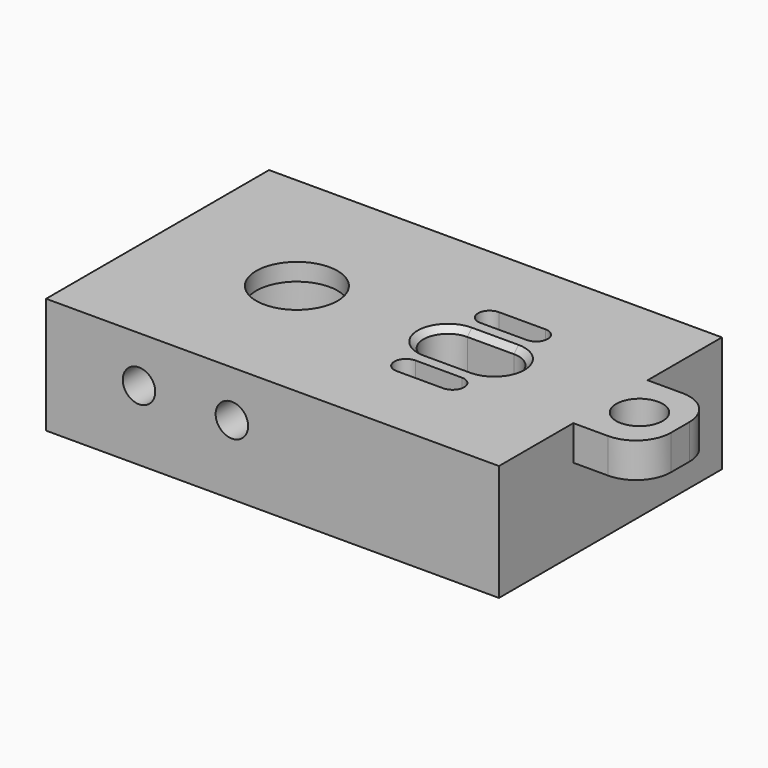
from build123d import *

# Parameters (mm, degrees)
CYLINDER267_R           = 2
CYLINDER267_DEPTH       = 10
CYLINDER267_PITCH_ANGLE = 90
BOX001027045199_W       = 3
BOX001027045199_H       = 8
BOX001027045199_DEPTH   = 8
FILLET045_R             = 3
CUT239_PITCH_ANGLE      = 90
CYLINDER028_R           = 1.4
CYLINDER028_DEPTH       = 19
CYLINDER028_ROLL_ANGLE  = 90
CYLINDER031_R           = 1.4
CYLINDER031_DEPTH       = 19
CYLINDER031_ROLL_ANGLE  = 90
CYLINDER032_R           = 1.4
CYLINDER032_DEPTH       = 19
CYLINDER032_ROLL_ANGLE  = 90
CYLINDER027_R           = 1.4
CYLINDER027_DEPTH       = 19
CYLINDER027_ROLL_ANGLE  = 90
CYLINDER021_R           = 1
CYLINDER021_DEPTH       = 30
CYLINDER022_R           = 1
CYLINDER022_DEPTH       = 30
BOX001007_W             = 4
BOX001007_H             = 4.2
BOX001007_DEPTH         = 27
CYLINDER020_R           = 2.1
CYLINDER020_DEPTH       = 30
CYLINDER023_R           = 2.1
CYLINDER023_DEPTH       = 30
CYLINDER024_R           = 1
CYLINDER024_DEPTH       = 30
BOX001008_W             = 4
BOX001008_H             = 2
BOX001008_DEPTH         = 27
CYLINDER025_R           = 1
CYLINDER025_DEPTH       = 30
BOX001009_W             = 4
BOX001009_H             = 2
BOX001009_DEPTH         = 27
CYLINDER016_R           = 3.5
CYLINDER016_DEPTH       = 30
CYLINDER017_R           = 4.7
CYLINDER017_DEPTH       = 30
CYLINDER018_R           = 10
CYLINDER018_DEPTH       = 30
CYLINDER026_R           = 10
CYLINDER026_DEPTH       = 30
CYLINDER019_R           = 10
CYLINDER019_DEPTH       = 30
BOX001006_W             = 39
BOX001006_H             = 24
BOX001006_DEPTH         = 10
CHAMFER_SIZE            = 1
CHAMFER014_SIZE         = 0.5


with BuildPart() as cylinder285:
    # Cylinder267 → Cylinder267 (new body)
    with BuildSketch(Plane.XY):
        Circle(CYLINDER267_R)
    extrude(amount=CYLINDER267_DEPTH)


with BuildPart() as cylinder285_1:
    # Cylinder267 pitch: moved
    add(cylinder285.part.rotate(Axis((0, 0, 0), (0, 1, 0)), CYLINDER267_PITCH_ANGLE))


with BuildPart() as cylinder285_2:
    # Cylinder267 placement: moved
    add(cylinder285_1.part.moved(Location((-3, 4, 4.5))))


with BuildPart() as cut239:
    # Box001027045199 → Box001027045199 (new body)
    with BuildSketch(Plane.XY):
        with Locations((1.5, 4)):
            Rectangle(BOX001027045199_W, BOX001027045199_H)
    extrude(amount=BOX001027045199_DEPTH)

    # Fillet045
    fillet045_edges = [cut239.edges().sort_by_distance(p)[0] for p in [
        (1.5, 0, 8),
        (1.5, 8, 8),
    ]]
    fillet(fillet045_edges, radius=FILLET045_R)

    # Cut239: cut Cylinder285
    add(cylinder285_2.part, mode=Mode.SUBTRACT)


with BuildPart() as cut239_1:
    # Cut239 pitch: moved
    add(cut239.part.rotate(Axis((0, 0, 0), (0, 1, 0)), CUT239_PITCH_ANGLE))


with BuildPart() as cut239_2:
    # Cut239 placement: moved
    add(cut239_1.part.moved(Location((25, -4, 10))))


with BuildPart() as cylinder028:
    # Cylinder028 → Cylinder028 (new body)
    with BuildSketch(Plane.XY):
        Circle(CYLINDER028_R)
    extrude(amount=CYLINDER028_DEPTH)


with BuildPart() as cylinder028_1:
    # Cylinder028 roll: moved
    add(cylinder028.part.rotate(Axis((0, 0, 0), (1, 0, 0)), CYLINDER028_ROLL_ANGLE))


with BuildPart() as cylinder028_2:
    # Cylinder028 placement: moved
    add(cylinder028_1.part.moved(Location((4, 24, 6))))


with BuildPart() as cylinder031:
    # Cylinder031 → Cylinder031 (new body)
    with BuildSketch(Plane.XY):
        Circle(CYLINDER031_R)
    extrude(amount=CYLINDER031_DEPTH)


with BuildPart() as cylinder031_1:
    # Cylinder031 roll: moved
    add(cylinder031.part.rotate(Axis((0, 0, 0), (1, 0, 0)), CYLINDER031_ROLL_ANGLE))


with BuildPart() as cylinder031_2:
    # Cylinder031 placement: moved
    add(cylinder031_1.part.moved(Location((-4, 24, 6))))


with BuildPart() as part_mirroring:
    # Part__Mirroring: instance of Cylinder031
    add(cylinder031_2.part.mirror(Plane(origin=(0, 0, 0), x_dir=(1, 0, 0), z_dir=(0, 1, 0))))


with BuildPart() as cylinder032:
    # Cylinder032 → Cylinder032 (new body)
    with BuildSketch(Plane.XY):
        Circle(CYLINDER032_R)
    extrude(amount=CYLINDER032_DEPTH)


with BuildPart() as cylinder032_1:
    # Cylinder032 roll: moved
    add(cylinder032.part.rotate(Axis((0, 0, 0), (1, 0, 0)), CYLINDER032_ROLL_ANGLE))


with BuildPart() as cylinder032_2:
    # Cylinder032 placement: moved
    add(cylinder032_1.part.moved(Location((4, 24, 6))))


with BuildPart() as part_mirroring001:
    # Part__Mirroring001: instance of Cylinder032
    add(cylinder032_2.part.mirror(Plane(origin=(0, 0, 0), x_dir=(1, 0, 0), z_dir=(0, 1, 0))))


with BuildPart() as m3_tap_a:
    # Cylinder027 → Cylinder027 (new body)
    with BuildSketch(Plane.XY):
        Circle(CYLINDER027_R)
    extrude(amount=CYLINDER027_DEPTH)


with BuildPart() as m3_tap_a_1:
    # Cylinder027 roll: moved
    add(m3_tap_a.part.rotate(Axis((0, 0, 0), (1, 0, 0)), CYLINDER027_ROLL_ANGLE))


with BuildPart() as m3_tap_a_2:
    # Cylinder027 placement: moved
    add(m3_tap_a_1.part.moved(Location((-4, 24, 6))))

    # Fusion056: union Cylinder028, Part__Mirroring, Part__Mirroring001
    add(cylinder028_2.part)
    add(part_mirroring.part)
    add(part_mirroring001.part)


with BuildPart() as cylinder021:
    # Cylinder021 → Cylinder021 (new body)
    with BuildSketch(Plane(origin=(17, -4.5, -12.5), x_dir=(1, 0, 0), z_dir=(0, 0, 1))):
        Circle(CYLINDER021_R)
    extrude(amount=CYLINDER021_DEPTH)


with BuildPart() as cylinder022:
    # Cylinder022 → Cylinder022 (new body)
    with BuildSketch(Plane(origin=(17, 4.5, -12.5), x_dir=(1, 0, 0), z_dir=(0, 0, 1))):
        Circle(CYLINDER022_R)
    extrude(amount=CYLINDER022_DEPTH)


with BuildPart() as cube005:
    # Box001007 → Box001007 (new body)
    with BuildSketch(Plane(origin=(13, -2.1, -11), x_dir=(1, 0, 0), z_dir=(0, 0, 1))):
        with Locations((2, 2.1)):
            Rectangle(BOX001007_W, BOX001007_H)
    extrude(amount=BOX001007_DEPTH)


with BuildPart() as cylinder020:
    # Cylinder020 → Cylinder020 (new body)
    with BuildSketch(Plane(origin=(17, 0, -12.5), x_dir=(1, 0, 0), z_dir=(0, 0, 1))):
        Circle(CYLINDER020_R)
    extrude(amount=CYLINDER020_DEPTH)


with BuildPart() as cylinder023:
    # Cylinder023 → Cylinder023 (new body)
    with BuildSketch(Plane(origin=(13, 0, -12.5), x_dir=(1, 0, 0), z_dir=(0, 0, 1))):
        Circle(CYLINDER023_R)
    extrude(amount=CYLINDER023_DEPTH)


with BuildPart() as cylinder024:
    # Cylinder024 → Cylinder024 (new body)
    with BuildSketch(Plane(origin=(13, -4.5, -12.5), x_dir=(1, 0, 0), z_dir=(0, 0, 1))):
        Circle(CYLINDER024_R)
    extrude(amount=CYLINDER024_DEPTH)


with BuildPart() as cube006:
    # Box001008 → Box001008 (new body)
    with BuildSketch(Plane(origin=(13, -5.5, -11), x_dir=(1, 0, 0), z_dir=(0, 0, 1))):
        with Locations((2, 1)):
            Rectangle(BOX001008_W, BOX001008_H)
    extrude(amount=BOX001008_DEPTH)


with BuildPart() as cylinder025:
    # Cylinder025 → Cylinder025 (new body)
    with BuildSketch(Plane(origin=(13, 4.5, -12.5), x_dir=(1, 0, 0), z_dir=(0, 0, 1))):
        Circle(CYLINDER025_R)
    extrude(amount=CYLINDER025_DEPTH)


with BuildPart() as motor_slots:
    # Box001009 → Box001009 (new body)
    with BuildSketch(Plane(origin=(13, 3.5, -11), x_dir=(1, 0, 0), z_dir=(0, 0, 1))):
        with Locations((2, 1)):
            Rectangle(BOX001009_W, BOX001009_H)
    extrude(amount=BOX001009_DEPTH)

    # Fusion052: union Cylinder021, Cylinder022, Cube005, Cylinder020, Cylinder023, Cylinder024, Cube006, Cylinder025
    add(cylinder021.part)
    add(cylinder022.part)
    add(cube005.part)
    add(cylinder020.part)
    add(cylinder023.part)
    add(cylinder024.part)
    add(cube006.part)
    add(cylinder025.part)


with BuildPart() as cylinder016:
    # Cylinder016 → Cylinder016 (new body)
    with BuildSketch(Plane.XY.offset(-12)):
        Circle(CYLINDER016_R)
    extrude(amount=CYLINDER016_DEPTH)


with BuildPart() as cylinder017:
    # Cylinder017 → Cylinder017 (new body)
    with BuildSketch(Plane.XY.offset(-21.5)):
        Circle(CYLINDER017_R)
    extrude(amount=CYLINDER017_DEPTH)


with BuildPart() as cylinder018:
    # Cylinder018 → Cylinder018 (new body)
    with BuildSketch(Plane.XY.offset(-25.5)):
        Circle(CYLINDER018_R)
    extrude(amount=CYLINDER018_DEPTH)


with BuildPart() as cylinder026:
    # Cylinder026 → Cylinder026 (new body)
    with BuildSketch(Plane(origin=(15, 0, -25.5), x_dir=(1, 0, 0), z_dir=(0, 0, 1))):
        Circle(CYLINDER026_R)
    extrude(amount=CYLINDER026_DEPTH)


with BuildPart() as fusion054:
    # Cylinder019 → Cylinder019 (new body)
    with BuildSketch(Plane(origin=(16, 0, -25.5), x_dir=(1, 0, 0), z_dir=(0, 0, 1))):
        Circle(CYLINDER019_R)
    extrude(amount=CYLINDER019_DEPTH)

    # Fusion053: union Cylinder016, Cylinder017, Cylinder018, Cylinder026
    add(cylinder016.part)
    add(cylinder017.part)
    add(cylinder018.part)
    add(cylinder026.part)

    # Fusion054: union motor-slots
    add(motor_slots.part)


with BuildPart() as gearbox:
    # Box001006 → Box001006 (new body)
    with BuildSketch(Plane(origin=(-12, -12, 0), x_dir=(1, 0, 0), z_dir=(0, 0, 1))):
        with Locations((19.5, 12)):
            Rectangle(BOX001006_W, BOX001006_H)
    extrude(amount=BOX001006_DEPTH)

    # Cut005: cut Fusion054
    add(fusion054.part, mode=Mode.SUBTRACT)

    # Chamfer
    chamfer_edges = [gearbox.edges().sort_by_distance(p)[0] for p in [
        (12, 4.5, 4.5),
        (15, 3.5, 4.5),
        (17.707107, 3.792893, 4.5),
        (17.707107, 5.207107, 4.5),
        (15, 5.5, 4.5),
        (17.707107, -5.207107, 4.5),
        (17.707107, -3.792893, 4.5),
        (15, -3.5, 4.5),
        (12, -4.5, 4.5),
        (15, -5.5, 4.5),
    ]]
    chamfer(chamfer_edges, length=CHAMFER_SIZE)

    # Cut007: cut M3-tap-a
    add(m3_tap_a_2.part, mode=Mode.SUBTRACT)

    # Chamfer014
    chamfer014_edges = [gearbox.edges().sort_by_distance(p)[0] for p in [
        (18.484924, 1.484924, 10),
        (15, 2.1, 10),
        (10.9, 0, 10),
        (15, -2.1, 10),
        (18.484924, -1.484924, 10),
    ]]
    chamfer(chamfer014_edges, length=CHAMFER014_SIZE)

    # Fusion112154: union Cut239
    add(cut239_2.part)


solid = gearbox.part
